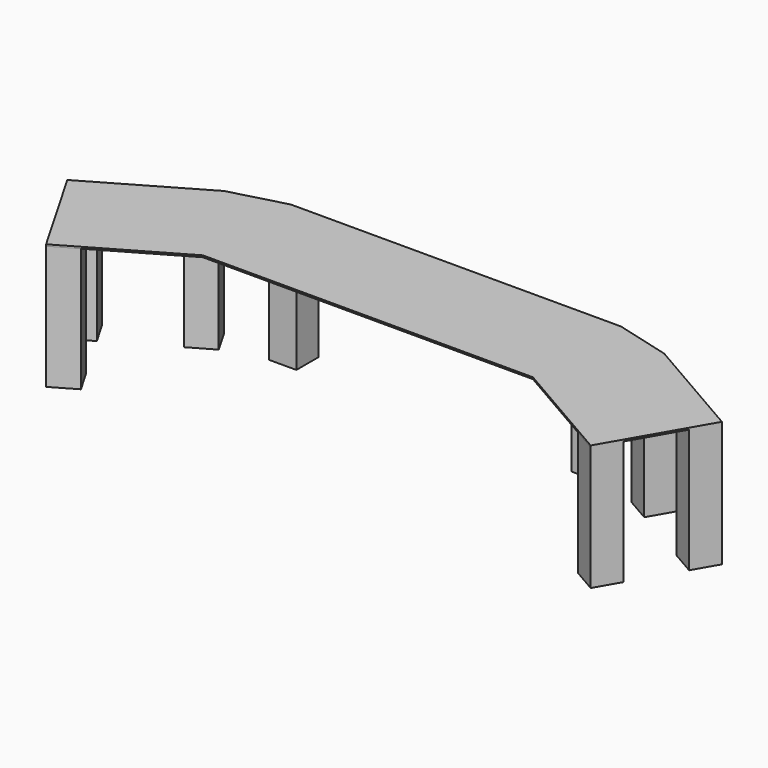
from build123d import *

# Parameters (mm, degrees)
F0_W     = 1219.2
F0_H     = 406.4
F1_DEPTH = 6.35
F2_W     = 101.6
F2_H     = 101.6
F3_DEPTH = 457.2


with BuildPart() as f1:
    # F0 (on Top) → F1 (new body)
    with BuildSketch(Plane.XY):
        Polygon((812.8, 148.752724), (609.6, -203.2), (1005.546815, -431.8), (1208.746815, -79.847276), align=None)
        Polygon((812.8, 148.752724), (609.6, 203.2), (609.6, -203.2), align=None)
        Rectangle(F0_W, F0_H)
        Polygon((-609.6, -203.2), (-609.6, 203.2), (-812.8, 148.752724), align=None)
        Polygon((-1005.546815, -431.8), (-609.6, -203.2), (-812.8, 148.752724), (-1208.746815, -79.847276), align=None)
    extrude(amount=F1_DEPTH)

    # F2 (on face) → F3 (join)
    with BuildSketch(Plane(origin=(0, 0, 0), x_dir=(1, 0, 0), z_dir=(0, 0, -1))):
        Polygon((-968.358634, 293.011819), (-917.558634, 381), (-1005.546815, 431.8), (-1056.346815, 343.811819), align=None)
        Polygon((-1208.746815, 79.847276), (-1120.758634, 29.047276), (-1069.958634, 117.035457), (-1157.946815, 167.835457), align=None)
        Polygon((-900.788181, -97.952724), (-812.8, -148.752724), (-762, -60.764543), (-849.988181, -9.964543), align=None)
        with Locations((-558.8, -152.4)):
            Rectangle(F2_W, F2_H)
        Polygon((968.358634, 293.011819), (1056.346815, 343.811819), (1005.546815, 431.8), (917.558634, 381), align=None)
        Polygon((1120.758634, 29.047276), (1208.746815, 79.847276), (1157.946815, 167.835457), (1069.958634, 117.035457), align=None)
        Polygon((812.8, -148.752724), (900.788181, -97.952724), (849.988181, -9.964543), (762, -60.764543), align=None)
        with Locations((558.8, -152.4)):
            Rectangle(F2_W, F2_H)
    extrude(amount=F3_DEPTH)


solid = f1.part
